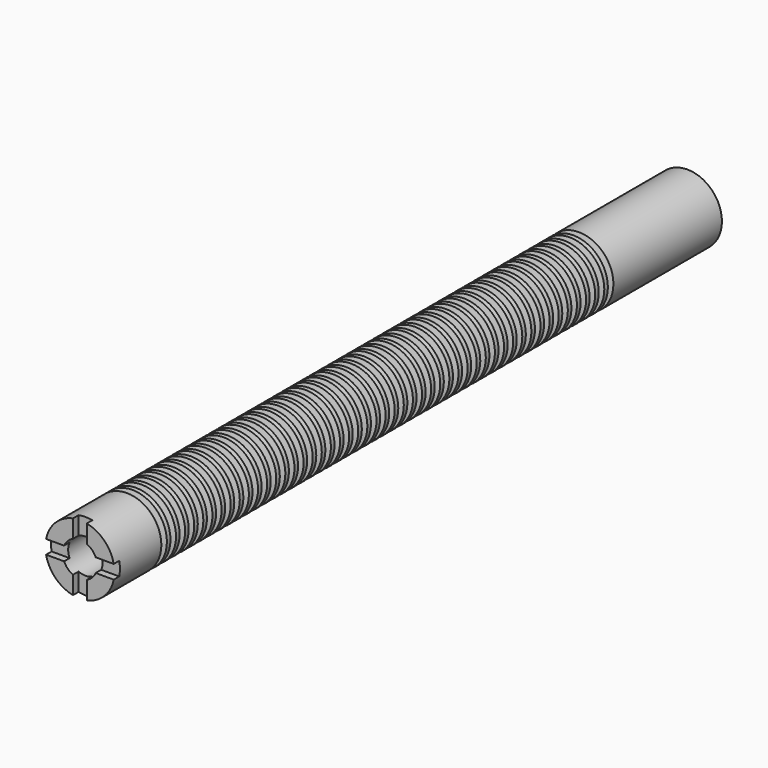
from build123d import *

# Parameters (mm, degrees)
F0_R     = 12.7
F1_DEPTH = 279.4
F2_R     = 6.35
F3_DEPTH = 25.4
F4_W     = 5.08
F4_H     = 38.1
F5_DEPTH = 2.54
F6_W     = 38.1
F6_H     = 5.08
F7_DEPTH = 2.54


with BuildPart() as f1:
    # F0 (on Front) → F1 (new body)
    with BuildSketch(Plane.XZ):
        Circle(F0_R)
    extrude(amount=F1_DEPTH)

    # F2 (on face) → F3 (cut)
    with BuildSketch(Plane.XZ.offset(279.4)):
        Circle(F2_R)
    extrude(amount=-F3_DEPTH, mode=Mode.SUBTRACT)

    # F4 (on face) → F5 (cut)
    with BuildSketch(Plane.XZ.offset(279.4)):
        Rectangle(F4_W, F4_H)
    extrude(amount=-F5_DEPTH, mode=Mode.SUBTRACT)

    # F6 (on face) → F7 (cut)
    with BuildSketch(Plane.XZ.offset(279.4)):
        Rectangle(F6_W, F6_H)
    extrude(amount=-F7_DEPTH, mode=Mode.SUBTRACT)

    # F8 (on Right) → F9 (revolve, cut)
    with BuildSketch(Plane.YZ):
        Polygon((-255.905, 10.16), (-255.27, 12.7), (-257.81, 12.7), (-257.175, 10.16), align=None)
        Polygon((-252.984, 10.16), (-251.714, 10.16), (-251.079, 12.7), (-253.619, 12.7), align=None)
        Polygon((-248.793, 10.16), (-247.523, 10.16), (-246.888, 12.7), (-249.428, 12.7), align=None)
        Polygon((-244.602, 10.16), (-243.332, 10.16), (-242.697, 12.7), (-245.237, 12.7), align=None)
        Polygon((-240.411, 10.16), (-239.141, 10.16), (-238.506, 12.7), (-241.046, 12.7), align=None)
        Polygon((-236.22, 10.16), (-234.95, 10.16), (-234.315, 12.7), (-236.855, 12.7), align=None)
        Polygon((-232.029, 10.16), (-230.759, 10.16), (-230.124, 12.7), (-232.664, 12.7), align=None)
        Polygon((-227.838, 10.16), (-226.568, 10.16), (-225.933, 12.7), (-228.473, 12.7), align=None)
        Polygon((-223.647, 10.16), (-222.377, 10.16), (-221.742, 12.7), (-224.282, 12.7), align=None)
        Polygon((-219.456, 10.16), (-218.186, 10.16), (-217.551, 12.7), (-220.091, 12.7), align=None)
        Polygon((-215.265, 10.16), (-213.995, 10.16), (-213.36, 12.7), (-215.9, 12.7), align=None)
        Polygon((-211.074, 10.16), (-209.804, 10.16), (-209.169, 12.7), (-211.709, 12.7), align=None)
        Polygon((-206.883, 10.16), (-205.613, 10.16), (-204.978, 12.7), (-207.518, 12.7), align=None)
        Polygon((-202.692, 10.16), (-201.422, 10.16), (-200.787, 12.7), (-203.327, 12.7), align=None)
        Polygon((-198.501, 10.16), (-197.231, 10.16), (-196.596, 12.7), (-199.136, 12.7), align=None)
        Polygon((-194.31, 10.16), (-193.04, 10.16), (-192.405, 12.7), (-194.945, 12.7), align=None)
        Polygon((-190.119, 10.16), (-188.849, 10.16), (-188.214, 12.7), (-190.754, 12.7), align=None)
        Polygon((-185.928, 10.16), (-184.658, 10.16), (-184.023, 12.7), (-186.563, 12.7), align=None)
        Polygon((-181.737, 10.16), (-180.467, 10.16), (-179.832, 12.7), (-182.372, 12.7), align=None)
        Polygon((-177.546, 10.16), (-176.276, 10.16), (-175.641, 12.7), (-178.181, 12.7), align=None)
        Polygon((-173.355, 10.16), (-172.085, 10.16), (-171.45, 12.7), (-173.99, 12.7), align=None)
        Polygon((-169.164, 10.16), (-167.894, 10.16), (-167.259, 12.7), (-169.799, 12.7), align=None)
        Polygon((-164.973, 10.16), (-163.703, 10.16), (-163.068, 12.7), (-165.608, 12.7), align=None)
        Polygon((-160.782, 10.16), (-159.512, 10.16), (-158.877, 12.7), (-161.417, 12.7), align=None)
        Polygon((-156.591, 10.16), (-155.321, 10.16), (-154.686, 12.7), (-157.226, 12.7), align=None)
        Polygon((-152.4, 10.16), (-151.13, 10.16), (-150.495, 12.7), (-153.035, 12.7), align=None)
        Polygon((-148.209, 10.16), (-146.939, 10.16), (-146.304, 12.7), (-148.844, 12.7), align=None)
        Polygon((-144.018, 10.16), (-142.748, 10.16), (-142.113, 12.7), (-144.653, 12.7), align=None)
        Polygon((-139.827, 10.16), (-138.557, 10.16), (-137.922, 12.7), (-140.462, 12.7), align=None)
        Polygon((-135.636, 10.16), (-134.366, 10.16), (-133.731, 12.7), (-136.271, 12.7), align=None)
        Polygon((-131.445, 10.16), (-130.175, 10.16), (-129.54, 12.7), (-132.08, 12.7), align=None)
        Polygon((-127.254, 10.16), (-125.984, 10.16), (-125.349, 12.7), (-127.889, 12.7), align=None)
        Polygon((-123.063, 10.16), (-121.793, 10.16), (-121.158, 12.7), (-123.698, 12.7), align=None)
        Polygon((-118.872, 10.16), (-117.602, 10.16), (-116.967, 12.7), (-119.507, 12.7), align=None)
        Polygon((-114.681, 10.16), (-113.411, 10.16), (-112.776, 12.7), (-115.316, 12.7), align=None)
        Polygon((-110.49, 10.16), (-109.22, 10.16), (-108.585, 12.7), (-111.125, 12.7), align=None)
        Polygon((-106.299, 10.16), (-105.029, 10.16), (-104.394, 12.7), (-106.934, 12.7), align=None)
        Polygon((-102.108, 10.16), (-100.838, 10.16), (-100.203, 12.7), (-102.743, 12.7), align=None)
        Polygon((-97.917, 10.16), (-96.647, 10.16), (-96.012, 12.7), (-98.552, 12.7), align=None)
        Polygon((-93.726, 10.16), (-92.456, 10.16), (-91.821, 12.7), (-94.361, 12.7), align=None)
        Polygon((-89.535, 10.16), (-88.265, 10.16), (-87.63, 12.7), (-90.17, 12.7), align=None)
        Polygon((-85.344, 10.16), (-84.074, 10.16), (-83.439, 12.7), (-85.979, 12.7), align=None)
        Polygon((-81.153, 10.16), (-79.883, 10.16), (-79.248, 12.7), (-81.788, 12.7), align=None)
        Polygon((-76.962, 10.16), (-75.692, 10.16), (-75.057, 12.7), (-77.597, 12.7), align=None)
        Polygon((-72.771, 10.16), (-71.501, 10.16), (-70.866, 12.7), (-73.406, 12.7), align=None)
        Polygon((-68.58, 10.16), (-67.31, 10.16), (-66.675, 12.7), (-69.215, 12.7), align=None)
        Polygon((-64.389, 10.16), (-63.119, 10.16), (-62.484, 12.7), (-65.024, 12.7), align=None)
        Polygon((-60.198, 10.16), (-58.928, 10.16), (-58.293, 12.7), (-60.833, 12.7), align=None)
        Polygon((-56.007, 10.16), (-54.737, 10.16), (-54.102, 12.7), (-56.642, 12.7), align=None)
        Polygon((-51.816, 10.16), (-50.546, 10.16), (-49.911, 12.7), (-52.451, 12.7), align=None)
    revolve(axis=Axis((0, 0, 0), (0, 1, 0)), mode=Mode.SUBTRACT)


solid = f1.part
